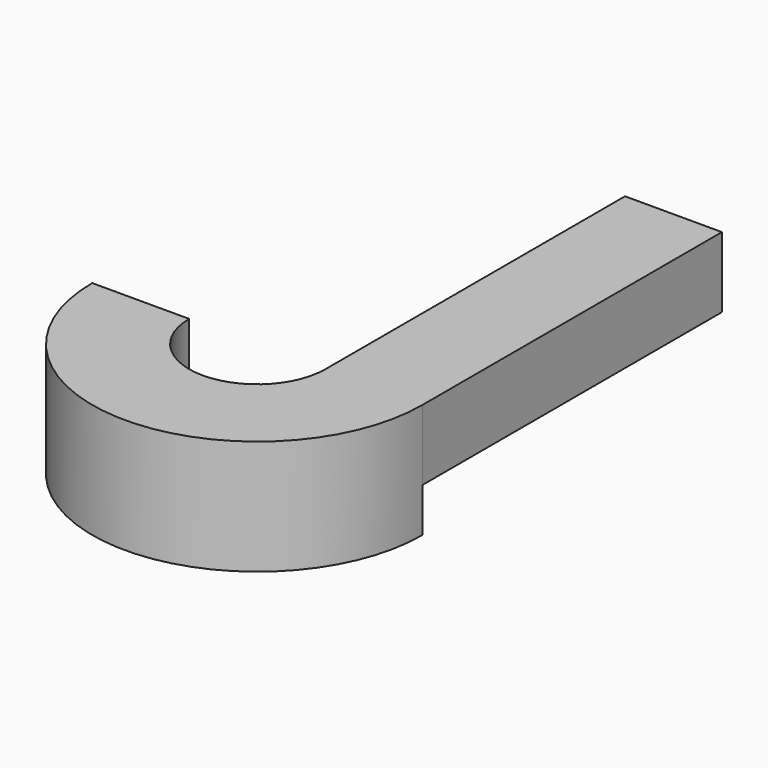
from build123d import *

# Parameters (mm, degrees)
F0_W     = 34.925
F0_H     = 134.9375
F1_DEPTH = 25.4
F2_DEPTH = 25.4
F4_DEPTH = 15.875


with BuildPart() as f1:
    # F0 (on Top) → F1 (new body)
    with BuildSketch(Plane.XY):
        Rectangle(F0_W, F0_H)
    extrude(amount=F1_DEPTH)

    # F0 (on Top) → F2 (join)
    with BuildSketch(Plane.XY):
        Rectangle(F0_W, F0_H)
        with BuildLine():
            Line((17.4625, -67.46875), (-17.4625, -67.46875))
            ThreePointArc((-17.4625, -67.46875), (-42.00525, -92.0115), (-66.548, -67.46875))
            Line((-66.548, -67.46875), (-101.473, -67.46875))
            ThreePointArc((-101.473, -67.46875), (-42.00525, -126.9365), (17.4625, -67.46875))
        make_face()
    extrude(amount=F2_DEPTH)

    # F3 (on face) → F4 (join)
    with BuildSketch(Plane(origin=(0, 0, 0), x_dir=(1, 0, 0), z_dir=(0, 0, -1))):
        with BuildLine():
            ThreePointArc((-66.548, 67.46875), (-42.00525, 92.0115), (-17.4625, 67.46875))
            Line((-17.4625, 67.46875), (17.4625, 67.46875))
            ThreePointArc((17.4625, 67.46875), (-42.00525, 126.9365), (-101.473, 67.46875))
            Line((-101.473, 67.46875), (-66.548, 67.46875))
        make_face()
    extrude(amount=F4_DEPTH)


solid = f1.part
